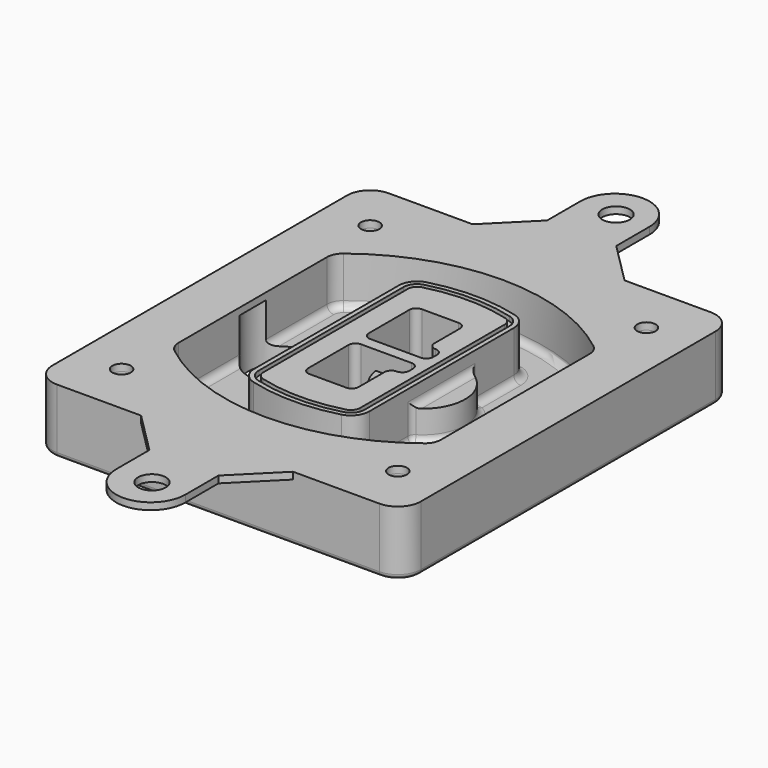
from build123d import *

# Parameters (mm, degrees)
F0_R      = 4
F1_DEPTH  = 25
F2_DEPTH  = 3
F3_DEPTH  = 18
F5_DEPTH  = 21
F6_DEPTH  = 2
F8_DEPTH  = 20
F9_DEPTH  = 16
F10_DEPTH = 25
F7_R      = 6
F7_R_2    = 4
F11_DEPTH = 6
F13_DEPTH = 9
F14_R     = 3
F15_R     = 2
F16_R     = 6
F16_R_2   = 4
F17_DEPTH = 3


with BuildPart() as f1:
    # F0 (on Top) → F1 (new body)
    with BuildSketch(Plane.XY):
        with BuildLine():
            ThreePointArc((-80, -80), (-77.0710678119, -87.0710678119), (-70, -90))
            Line((-70, -90), (70, -90))
            ThreePointArc((70, -90), (77.0710678119, -87.0710678119), (80, -80))
            Line((80, -80), (80, 80))
            ThreePointArc((80, 80), (77.0710678119, 87.0710678119), (70, 90))
            Line((70, 90), (-70, 90))
            ThreePointArc((-70, 90), (-77.0710678119, 87.0710678119), (-80, 80))
            Line((-80, 80), (-80, -80))
        make_face()
        with Locations((-60, -67.5)):
            Circle(F0_R, mode=Mode.SUBTRACT)
        with Locations((60, -67.5)):
            Circle(F0_R, mode=Mode.SUBTRACT)
        with Locations((-60, 67.5)):
            Circle(F0_R, mode=Mode.SUBTRACT)
        with BuildLine():
            ThreePointArc((-64, 40.2934422872), (-62.5820384798, 46.4328484224), (-58.6153846154, 51.3286200352))
            ThreePointArc((-58.6153846154, 51.3286200352), (0, 71.5), (58.6153846154, 51.3286200352))
            ThreePointArc((58.6153846154, 51.3286200352), (62.5820384798, 46.4328484224), (64, 40.2934422872))
            Line((64, 40.2934422872), (64, -40.2934422872))
            ThreePointArc((64, -40.2934422872), (62.5820384798, -46.4328484224), (58.6153846154, -51.3286200352))
            ThreePointArc((58.6153846154, -51.3286200352), (0, -71.5), (-58.6153846154, -51.3286200352))
            ThreePointArc((-58.6153846154, -51.3286200352), (-62.5820384798, -46.4328484224), (-64, -40.2934422872))
            Line((-64, -40.2934422872), (-64, 40.2934422872))
        make_face(mode=Mode.SUBTRACT)
        with Locations((60, 67.5)):
            Circle(F0_R, mode=Mode.SUBTRACT)
        with BuildLine():
            ThreePointArc((58.6153846154, 51.3286200352), (0, 71.5), (-58.6153846154, 51.3286200352))
            ThreePointArc((-58.6153846154, 51.3286200352), (-62.5820384798, 46.4328484224), (-64, 40.2934422872))
            Line((-64, 40.2934422872), (-64, -40.2934422872))
            ThreePointArc((-64, -40.2934422872), (-62.5820384798, -46.4328484224), (-58.6153846154, -51.3286200352))
            ThreePointArc((-58.6153846154, -51.3286200352), (0, -71.5), (58.6153846154, -51.3286200352))
            ThreePointArc((58.6153846154, -51.3286200352), (62.5820384798, -46.4328484224), (64, -40.2934422872))
            Line((64, -40.2934422872), (64, 40.2934422872))
            ThreePointArc((64, 40.2934422872), (62.5820384798, 46.4328484224), (58.6153846154, 51.3286200352))
        make_face()
        with BuildLine():
            Line((-60, -40.2934422872), (-60, 40.2934422872))
            ThreePointArc((-60, 40.2934422872), (-58.9871703427, 44.6787323838), (-56.1538461538, 48.1757121072))
            ThreePointArc((-56.1538461538, 48.1757121072), (0, 67.5), (56.1538461538, 48.1757121072))
            ThreePointArc((56.1538461538, 48.1757121072), (58.9871703427, 44.6787323838), (60, 40.2934422872))
            Line((60, 40.2934422872), (60, -40.2934422872))
            ThreePointArc((60, -40.2934422872), (58.9871703427, -44.6787323838), (56.1538461538, -48.1757121072))
            ThreePointArc((56.1538461538, -48.1757121072), (0, -67.5), (-56.1538461538, -48.1757121072))
            ThreePointArc((-56.1538461538, -48.1757121072), (-58.9871703427, -44.6787323838), (-60, -40.2934422872))
        make_face(mode=Mode.SUBTRACT)
        with BuildLine():
            ThreePointArc((-56.1538461538, 48.1757121072), (-58.9871703427, 44.6787323838), (-60, 40.2934422872))
            Line((-60, 40.2934422872), (-60, -40.2934422872))
            ThreePointArc((-60, -40.2934422872), (-58.9871703427, -44.6787323838), (-56.1538461538, -48.1757121072))
            ThreePointArc((-56.1538461538, -48.1757121072), (0, -67.5), (56.1538461538, -48.1757121072))
            ThreePointArc((56.1538461538, -48.1757121072), (58.9871703427, -44.6787323838), (60, -40.2934422872))
            Line((60, -40.2934422872), (60, 40.2934422872))
            ThreePointArc((60, 40.2934422872), (58.9871703427, 44.6787323838), (56.1538461538, 48.1757121072))
            ThreePointArc((56.1538461538, 48.1757121072), (0, 67.5), (-56.1538461538, 48.1757121072))
        make_face()
        with BuildLine():
            ThreePointArc((54.3076923077, 45.8110311612), (56.2910192399, 43.3631453548), (57, 40.2934422872))
            Line((57, 40.2934422872), (57, -40.2934422872))
            ThreePointArc((57, -40.2934422872), (56.2910192399, -43.3631453548), (54.3076923077, -45.8110311612))
            ThreePointArc((54.3076923077, -45.8110311612), (0, -64.5), (-54.3076923077, -45.8110311612))
            ThreePointArc((-54.3076923077, -45.8110311612), (-56.2910192399, -43.3631453548), (-57, -40.2934422872))
            Line((-57, -40.2934422872), (-57, 40.2934422872))
            ThreePointArc((-57, 40.2934422872), (-56.2910192399, 43.3631453548), (-54.3076923077, 45.8110311612))
            ThreePointArc((-54.3076923077, 45.8110311612), (0, 64.5), (54.3076923077, 45.8110311612))
        make_face(mode=Mode.SUBTRACT)
        with BuildLine():
            Line((57, -40.2934422872), (57, 40.2934422872))
            ThreePointArc((57, 40.2934422872), (56.2910192399, 43.3631453548), (54.3076923077, 45.8110311612))
            ThreePointArc((54.3076923077, 45.8110311612), (0, 64.5), (-54.3076923077, 45.8110311612))
            ThreePointArc((-54.3076923077, 45.8110311612), (-56.2910192399, 43.3631453548), (-57, 40.2934422872))
            Line((-57, 40.2934422872), (-57, -40.2934422872))
            ThreePointArc((-57, -40.2934422872), (-56.2910192399, -43.3631453548), (-54.3076923077, -45.8110311612))
            ThreePointArc((-54.3076923077, -45.8110311612), (0, -64.5), (54.3076923077, -45.8110311612))
            ThreePointArc((54.3076923077, -45.8110311612), (56.2910192399, -43.3631453548), (57, -40.2934422872))
        make_face()
    extrude(amount=-F1_DEPTH)

    # F0 (on Top) → F2 (join)
    with BuildSketch(Plane.XY):
        with BuildLine():
            ThreePointArc((-56.1538461538, 48.1757121072), (-58.9871703427, 44.6787323838), (-60, 40.2934422872))
            Line((-60, 40.2934422872), (-60, -40.2934422872))
            ThreePointArc((-60, -40.2934422872), (-58.9871703427, -44.6787323838), (-56.1538461538, -48.1757121072))
            ThreePointArc((-56.1538461538, -48.1757121072), (0, -67.5), (56.1538461538, -48.1757121072))
            ThreePointArc((56.1538461538, -48.1757121072), (58.9871703427, -44.6787323838), (60, -40.2934422872))
            Line((60, -40.2934422872), (60, 40.2934422872))
            ThreePointArc((60, 40.2934422872), (58.9871703427, 44.6787323838), (56.1538461538, 48.1757121072))
            ThreePointArc((56.1538461538, 48.1757121072), (0, 67.5), (-56.1538461538, 48.1757121072))
        make_face()
        with BuildLine():
            ThreePointArc((54.3076923077, 45.8110311612), (56.2910192399, 43.3631453548), (57, 40.2934422872))
            Line((57, 40.2934422872), (57, -40.2934422872))
            ThreePointArc((57, -40.2934422872), (56.2910192399, -43.3631453548), (54.3076923077, -45.8110311612))
            ThreePointArc((54.3076923077, -45.8110311612), (0, -64.5), (-54.3076923077, -45.8110311612))
            ThreePointArc((-54.3076923077, -45.8110311612), (-56.2910192399, -43.3631453548), (-57, -40.2934422872))
            Line((-57, -40.2934422872), (-57, 40.2934422872))
            ThreePointArc((-57, 40.2934422872), (-56.2910192399, 43.3631453548), (-54.3076923077, 45.8110311612))
            ThreePointArc((-54.3076923077, 45.8110311612), (0, 64.5), (54.3076923077, 45.8110311612))
        make_face(mode=Mode.SUBTRACT)
    extrude(amount=F2_DEPTH)

    # F0 (on Top) → F3 (cut)
    with BuildSketch(Plane.XY):
        with BuildLine():
            Line((57, -40.2934422872), (57, 40.2934422872))
            ThreePointArc((57, 40.2934422872), (56.2910192399, 43.3631453548), (54.3076923077, 45.8110311612))
            ThreePointArc((54.3076923077, 45.8110311612), (0, 64.5), (-54.3076923077, 45.8110311612))
            ThreePointArc((-54.3076923077, 45.8110311612), (-56.2910192399, 43.3631453548), (-57, 40.2934422872))
            Line((-57, 40.2934422872), (-57, -40.2934422872))
            ThreePointArc((-57, -40.2934422872), (-56.2910192399, -43.3631453548), (-54.3076923077, -45.8110311612))
            ThreePointArc((-54.3076923077, -45.8110311612), (0, -64.5), (54.3076923077, -45.8110311612))
            ThreePointArc((54.3076923077, -45.8110311612), (56.2910192399, -43.3631453548), (57, -40.2934422872))
        make_face()
    extrude(amount=-F3_DEPTH, mode=Mode.SUBTRACT)

    # F4 (on face) → F5 (join, through all)
    with BuildSketch(Plane.XY.offset(3)):
        with BuildLine():
            ThreePointArc((-25, -39.2465276821), (-23.3511545998, -44.1109737193), (-19.0842911877, -46.9702398883))
            ThreePointArc((-19.0842911877, -46.9702398883), (0, -49.5), (19.0842911877, -46.9702398883))
            ThreePointArc((19.0842911877, -46.9702398883), (23.3511545998, -44.1109737193), (25, -39.2465276821))
            Line((25, -39.2465276821), (25, 39.2465276821))
            ThreePointArc((25, 39.2465276821), (23.3511545998, 44.1109737193), (19.0842911877, 46.9702398883))
            ThreePointArc((19.0842911877, 46.9702398883), (0, 49.5), (-19.0842911877, 46.9702398883))
            ThreePointArc((-19.0842911877, 46.9702398883), (-23.3511545998, 44.1109737193), (-25, 39.2465276821))
            Line((-25, 39.2465276821), (-25, -39.2465276821))
        make_face()
        with BuildLine():
            ThreePointArc((18.5632183908, 45.0393118368), (21.7633659499, 42.89486221), (23, 39.2465276821))
            Line((23, 39.2465276821), (23, -39.2465276821))
            ThreePointArc((23, -39.2465276821), (21.7633659499, -42.89486221), (18.5632183908, -45.0393118368))
            ThreePointArc((18.5632183908, -45.0393118368), (0, -47.5), (-18.5632183908, -45.0393118368))
            ThreePointArc((-18.5632183908, -45.0393118368), (-21.7633659499, -42.89486221), (-23, -39.2465276821))
            Line((-23, -39.2465276821), (-23, 39.2465276821))
            ThreePointArc((-23, 39.2465276821), (-21.7633659499, 42.89486221), (-18.5632183908, 45.0393118368))
            ThreePointArc((-18.5632183908, 45.0393118368), (0, 47.5), (18.5632183908, 45.0393118368))
        make_face(mode=Mode.SUBTRACT)
        with BuildLine():
            Line((23, -39.2465276821), (23, 39.2465276821))
            ThreePointArc((23, 39.2465276821), (21.7633659499, 42.89486221), (18.5632183908, 45.0393118368))
            ThreePointArc((18.5632183908, 45.0393118368), (0, 47.5), (-18.5632183908, 45.0393118368))
            ThreePointArc((-18.5632183908, 45.0393118368), (-21.7633659499, 42.89486221), (-23, 39.2465276821))
            Line((-23, 39.2465276821), (-23, -39.2465276821))
            ThreePointArc((-23, -39.2465276821), (-21.7633659499, -42.89486221), (-18.5632183908, -45.0393118368))
            ThreePointArc((-18.5632183908, -45.0393118368), (0, -47.5), (18.5632183908, -45.0393118368))
            ThreePointArc((18.5632183908, -45.0393118368), (21.7633659499, -42.89486221), (23, -39.2465276821))
        make_face()
        with BuildLine():
            ThreePointArc((18.0421455939, 43.1083837852), (20.1755772999, 41.6787507007), (21, 39.2465276821))
            Line((21, 39.2465276821), (21, -39.2465276821))
            ThreePointArc((21, -39.2465276821), (20.1755772999, -41.6787507007), (18.0421455939, -43.1083837852))
            ThreePointArc((18.0421455939, -43.1083837852), (0, -45.5), (-18.0421455939, -43.1083837852))
            ThreePointArc((-18.0421455939, -43.1083837852), (-20.1755772999, -41.6787507007), (-21, -39.2465276821))
            Line((-21, -39.2465276821), (-21, 39.2465276821))
            ThreePointArc((-21, 39.2465276821), (-20.1755772999, 41.6787507007), (-18.0421455939, 43.1083837852))
            ThreePointArc((-18.0421455939, 43.1083837852), (0, 45.5), (18.0421455939, 43.1083837852))
        make_face(mode=Mode.SUBTRACT)
        with BuildLine():
            Line((21, -39.2465276821), (21, 39.2465276821))
            ThreePointArc((21, 39.2465276821), (20.1755772999, 41.6787507007), (18.0421455939, 43.1083837852))
            ThreePointArc((18.0421455939, 43.1083837852), (0, 45.5), (-18.0421455939, 43.1083837852))
            ThreePointArc((-18.0421455939, 43.1083837852), (-20.1755772999, 41.6787507007), (-21, 39.2465276821))
            Line((-21, 39.2465276821), (-21, -39.2465276821))
            ThreePointArc((-21, -39.2465276821), (-20.1755772999, -41.6787507007), (-18.0421455939, -43.1083837852))
            ThreePointArc((-18.0421455939, -43.1083837852), (0, -45.5), (18.0421455939, -43.1083837852))
            ThreePointArc((18.0421455939, -43.1083837852), (20.1755772999, -41.6787507007), (21, -39.2465276821))
        make_face()
        with BuildLine():
            Line((-8, -2.5), (14, -2.5))
            ThreePointArc((14, -2.5), (16.1213203436, -3.3786796564), (17, -5.5))
            Line((17, -5.5), (17, -7.5))
            ThreePointArc((17, -7.5), (16.1213203436, -9.6213203436), (14, -10.5))
            ThreePointArc((14, -10.5), (11.8786796564, -11.3786796564), (11, -13.5))
            Line((11, -13.5), (11, -27.5))
            ThreePointArc((11, -27.5), (10.1213203436, -29.6213203436), (8, -30.5))
            Line((8, -30.5), (-8, -30.5))
            ThreePointArc((-8, -30.5), (-10.1213203436, -29.6213203436), (-11, -27.5))
            Line((-11, -27.5), (-11, -5.5))
            ThreePointArc((-11, -5.5), (-10.1213203436, -3.3786796564), (-8, -2.5))
        make_face(mode=Mode.SUBTRACT)
        with BuildLine():
            ThreePointArc((-8, 2.5), (-10.1213203436, 3.3786796564), (-11, 5.5))
            Line((-11, 5.5), (-11, 27.5))
            ThreePointArc((-11, 27.5), (-10.1213203436, 29.6213203436), (-8, 30.5))
            Line((-8, 30.5), (8, 30.5))
            ThreePointArc((8, 30.5), (10.1213203436, 29.6213203436), (11, 27.5))
            Line((11, 27.5), (11, 13.5))
            ThreePointArc((11, 13.5), (11.8786796564, 11.3786796564), (14, 10.5))
            ThreePointArc((14, 10.5), (16.1213203436, 9.6213203436), (17, 7.5))
            Line((17, 7.5), (17, 5.5))
            ThreePointArc((17, 5.5), (16.1213203436, 3.3786796564), (14, 2.5))
            Line((14, 2.5), (-8, 2.5))
        make_face(mode=Mode.SUBTRACT)
    extrude(amount=-F5_DEPTH)

    # F4 (on face) → F6 (cut)
    with BuildSketch(Plane.XY.offset(3)):
        with BuildLine():
            Line((23, -39.2465276821), (23, 39.2465276821))
            ThreePointArc((23, 39.2465276821), (21.7633659499, 42.89486221), (18.5632183908, 45.0393118368))
            ThreePointArc((18.5632183908, 45.0393118368), (0, 47.5), (-18.5632183908, 45.0393118368))
            ThreePointArc((-18.5632183908, 45.0393118368), (-21.7633659499, 42.89486221), (-23, 39.2465276821))
            Line((-23, 39.2465276821), (-23, -39.2465276821))
            ThreePointArc((-23, -39.2465276821), (-21.7633659499, -42.89486221), (-18.5632183908, -45.0393118368))
            ThreePointArc((-18.5632183908, -45.0393118368), (0, -47.5), (18.5632183908, -45.0393118368))
            ThreePointArc((18.5632183908, -45.0393118368), (21.7633659499, -42.89486221), (23, -39.2465276821))
        make_face()
        with BuildLine():
            ThreePointArc((18.0421455939, 43.1083837852), (20.1755772999, 41.6787507007), (21, 39.2465276821))
            Line((21, 39.2465276821), (21, -39.2465276821))
            ThreePointArc((21, -39.2465276821), (20.1755772999, -41.6787507007), (18.0421455939, -43.1083837852))
            ThreePointArc((18.0421455939, -43.1083837852), (0, -45.5), (-18.0421455939, -43.1083837852))
            ThreePointArc((-18.0421455939, -43.1083837852), (-20.1755772999, -41.6787507007), (-21, -39.2465276821))
            Line((-21, -39.2465276821), (-21, 39.2465276821))
            ThreePointArc((-21, 39.2465276821), (-20.1755772999, 41.6787507007), (-18.0421455939, 43.1083837852))
            ThreePointArc((-18.0421455939, 43.1083837852), (0, 45.5), (18.0421455939, 43.1083837852))
        make_face(mode=Mode.SUBTRACT)
    extrude(amount=-F6_DEPTH, mode=Mode.SUBTRACT)

    # F7 (on face) → F8 (join)
    with BuildSketch(Plane(origin=(0, 0, -25), x_dir=(1, 0, 0), z_dir=(0, 0, -1))):
        with BuildLine():
            ThreePointArc((3.28842436, 0), (16.7567035675, 13.4682792075), (30.224982775, 0))
            Line((30.224982775, 0), (35.224982775, 0))
            ThreePointArc((35.224982775, 0), (16.7567035675, 18.4682792075), (-1.71157564, 0))
            Line((-1.71157564, 0), (3.28842436, 0))
        make_face()
        with BuildLine():
            Line((3.28842436, 0), (30.224982775, 0))
            ThreePointArc((30.224982775, 0), (16.7567035675, 13.4682792075), (3.28842436, 0))
        make_face()
        with BuildLine():
            ThreePointArc((3.28842436, 0), (16.7567035675, -13.4682792075), (30.224982775, 0))
            Line((30.224982775, 0), (3.28842436, 0))
        make_face()
        with BuildLine():
            Line((35.224982775, 0), (30.224982775, 0))
            ThreePointArc((30.224982775, 0), (16.7567035675, -13.4682792075), (3.28842436, 0))
            Line((3.28842436, 0), (-1.71157564, 0))
            ThreePointArc((-1.71157564, 0), (16.7567035675, -18.4682792075), (35.224982775, 0))
        make_face()
    extrude(amount=-F8_DEPTH)

    # F7 (on face) → F9 (cut)
    with BuildSketch(Plane(origin=(0, 0, -25), x_dir=(1, 0, 0), z_dir=(0, 0, -1))):
        with BuildLine():
            Line((3.28842436, 0), (30.224982775, 0))
            ThreePointArc((30.224982775, 0), (16.7567035675, 13.4682792075), (3.28842436, 0))
        make_face()
        with BuildLine():
            ThreePointArc((3.28842436, 0), (16.7567035675, -13.4682792075), (30.224982775, 0))
            Line((30.224982775, 0), (3.28842436, 0))
        make_face()
    extrude(amount=-F9_DEPTH, mode=Mode.SUBTRACT)

    # F7 (on face) → F10 (cut)
    with BuildSketch(Plane(origin=(0, 0, -25), x_dir=(1, 0, 0), z_dir=(0, 0, -1))):
        with BuildLine():
            Line((-59.0318229325, 0), (-32.0952645175, 0))
            ThreePointArc((-32.0952645175, 0), (-45.563543725, 13.4682792075), (-59.0318229325, 0))
        make_face()
        with BuildLine():
            ThreePointArc((-59.0318229325, 0), (-45.563543725, -13.4682792075), (-32.0952645175, 0))
            Line((-32.0952645175, 0), (-59.0318229325, 0))
        make_face()
    extrude(amount=-F10_DEPTH, mode=Mode.SUBTRACT)

    # F7 (on face) → F11 (cut)
    with BuildSketch(Plane(origin=(0, 0, -25), x_dir=(1, 0, 0), z_dir=(0, 0, -1))):
        with Locations((60, -67.5)):
            Circle(F7_R)
        with Locations((60, -67.5)):
            Circle(F7_R_2, mode=Mode.SUBTRACT)
        with Locations((60, -67.5)):
            Circle(F7_R)
        with Locations((60, -67.5)):
            Circle(F7_R_2, mode=Mode.SUBTRACT)
        with Locations((-60, -67.5)):
            Circle(F7_R)
        with Locations((-60, -67.5)):
            Circle(F7_R_2, mode=Mode.SUBTRACT)
        with Locations((-60, -67.5)):
            Circle(F7_R)
        with Locations((-60, -67.5)):
            Circle(F7_R_2, mode=Mode.SUBTRACT)
        with Locations((-60, 67.5)):
            Circle(F7_R)
        with Locations((-60, 67.5)):
            Circle(F7_R_2, mode=Mode.SUBTRACT)
        with Locations((-60, 67.5)):
            Circle(F7_R)
        with Locations((-60, 67.5)):
            Circle(F7_R_2, mode=Mode.SUBTRACT)
        with Locations((60, 67.5)):
            Circle(F7_R)
        with Locations((60, 67.5)):
            Circle(F7_R_2, mode=Mode.SUBTRACT)
        with Locations((60, 67.5)):
            Circle(F7_R)
        with Locations((60, 67.5)):
            Circle(F7_R_2, mode=Mode.SUBTRACT)
    extrude(amount=-F11_DEPTH, mode=Mode.SUBTRACT)

    # F12 (on face) → F13 (cut, through all)
    with BuildSketch(Plane(origin=(0, 0, -9), x_dir=(1, 0, 0), z_dir=(0, 0, -1))):
        with BuildLine():
            Line((11, 13.5), (11, 17.5481537753))
            ThreePointArc((11, 17.5481537753), (2.5696536419, 11.8239143813), (-1.5415842455, 2.5))
            Line((-1.5415842455, 2.5), (3.5224848595, 2.5))
            ThreePointArc((3.5224848595, 2.5), (6.1857188154, 8.3455872281), (11.2536447004, 12.2927168648))
            ThreePointArc((11.2536447004, 12.2927168648), (11.0640958889, 12.8831798879), (11, 13.5))
        make_face()
        with BuildLine():
            ThreePointArc((11.2536447004, -12.2927168648), (6.1857188154, -8.3455872281), (3.5224848595, -2.5))
            Line((3.5224848595, -2.5), (-1.5415842455, -2.5))
            ThreePointArc((-1.5415842455, -2.5), (2.5696536419, -11.8239143813), (11, -17.5481537753))
            Line((11, -17.5481537753), (11, -13.5))
            ThreePointArc((11, -13.5), (11.0640958889, -12.8831798879), (11.2536447004, -12.2927168648))
        make_face()
        with BuildLine():
            ThreePointArc((11.2536447004, 12.2927168648), (6.1857188154, 8.3455872281), (3.5224848595, 2.5))
            Line((3.5224848595, 2.5), (14, 2.5))
            ThreePointArc((14, 2.5), (16.1213203436, 3.3786796564), (17, 5.5))
            Line((17, 5.5), (17, 7.5))
            ThreePointArc((17, 7.5), (16.1213203436, 9.6213203436), (14, 10.5))
            ThreePointArc((14, 10.5), (12.3601599782, 10.9878446101), (11.2536447004, 12.2927168648))
        make_face()
        with BuildLine():
            Line((14, -2.5), (3.5224848595, -2.5))
            ThreePointArc((3.5224848595, -2.5), (6.1857188154, -8.3455872281), (11.2536447004, -12.2927168648))
            ThreePointArc((11.2536447004, -12.2927168648), (12.3601599782, -10.9878446101), (14, -10.5))
            ThreePointArc((14, -10.5), (16.1213203436, -9.6213203436), (17, -7.5))
            Line((17, -7.5), (17, -5.5))
            ThreePointArc((17, -5.5), (16.1213203436, -3.3786796564), (14, -2.5))
        make_face()
    extrude(amount=F13_DEPTH, mode=Mode.SUBTRACT)

    # F14
    f14_edges = [f1.edges().sort_by_distance(p)[0] for p in [
        (-57, -23.703476, -18),
        (-57, 23.703476, -18),
        (25, 0, -5),
        (25, 16.526506, -11.5),
        (25, -16.526506, -11.5),
        (25, -27.886517, -18),
        (35.224983, 0, -18),
    ]]
    fillet(f14_edges, radius=F14_R)

    # F15
    f15_edges = [f1.edges().sort_by_distance(p)[0] for p in [
        (0, -90, -25),
    ]]
    fillet(f15_edges, radius=F15_R)

    # F16 (on face) → F17 (join, through all)
    with BuildSketch(Plane.XY):
        with BuildLine():
            Line((-15.5154720907, 108), (-33.5154720907, 90))
            Line((-33.5154720907, 90), (32.4845279093, 90))
            Line((32.4845279093, 90), (14.4845279093, 108))
            Line((14.4845279093, 108), (14.4845279093, 126))
            ThreePointArc((14.4845279093, 126), (-0.5154720907, 141), (-15.5154720907, 126))
            Line((-15.5154720907, 126), (-15.5154720907, 108))
        make_face()
        with Locations((0, 126)):
            Circle(F16_R, mode=Mode.SUBTRACT)
        with BuildLine():
            Line((32.4845279093, -90), (-33.5154720907, -90))
            Line((-33.5154720907, -90), (-15.5154720907, -108))
            Line((-15.5154720907, -108), (-15.5154720907, -126))
            ThreePointArc((-15.5154720907, -126), (-0.5154720907, -141), (14.4845279093, -126))
            Line((14.4845279093, -126), (14.4845279093, -108))
            Line((14.4845279093, -108), (32.4845279093, -90))
        make_face()
        with Locations((0, -126)):
            Circle(F16_R, mode=Mode.SUBTRACT)
        with BuildLine():
            Line((-60, -40.2934422872), (-60, 0))
            Line((-60, 0), (-80, 0))
            Line((-80, 0), (-80, -80))
            ThreePointArc((-80, -80), (-77.0710678119, -87.0710678119), (-70, -90))
            Line((-70, -90), (-33.5154720907, -90))
            Line((-33.5154720907, -90), (32.4845279093, -90))
            Line((32.4845279093, -90), (70, -90))
            ThreePointArc((70, -90), (77.0710678119, -87.0710678119), (80, -80))
            Line((80, -80), (80, 0))
            Line((80, 0), (60, 0))
            Line((60, 0), (60, -40.2934422872))
            ThreePointArc((60, -40.2934422872), (58.9871703427, -44.6787323838), (56.1538461538, -48.1757121072))
            ThreePointArc((56.1538461538, -48.1757121072), (0, -67.5), (-56.1538461538, -48.1757121072))
            ThreePointArc((-56.1538461538, -48.1757121072), (-58.9871703427, -44.6787323838), (-60, -40.2934422872))
        make_face()
        with Locations((-60, -67.5)):
            Circle(F16_R_2, mode=Mode.SUBTRACT)
        with Locations((60, -67.5)):
            Circle(F16_R_2, mode=Mode.SUBTRACT)
        with BuildLine():
            ThreePointArc((-60, 40.2934422872), (-58.9871703427, 44.6787323838), (-56.1538461538, 48.1757121072))
            ThreePointArc((-56.1538461538, 48.1757121072), (0, 67.5), (56.1538461538, 48.1757121072))
            ThreePointArc((56.1538461538, 48.1757121072), (58.9871703427, 44.6787323838), (60, 40.2934422872))
            Line((60, 40.2934422872), (60, 0))
            Line((60, 0), (80, 0))
            Line((80, 0), (80, 80))
            ThreePointArc((80, 80), (77.0710678119, 87.0710678119), (70, 90))
            Line((70, 90), (32.4845279093, 90))
            Line((32.4845279093, 90), (-33.5154720907, 90))
            Line((-33.5154720907, 90), (-70, 90))
            ThreePointArc((-70, 90), (-77.0710678119, 87.0710678119), (-80, 80))
            Line((-80, 80), (-80, 0))
            Line((-80, 0), (-60, 0))
            Line((-60, 0), (-60, 40.2934422872))
        make_face()
        with Locations((-60, 67.5)):
            Circle(F16_R_2, mode=Mode.SUBTRACT)
        with Locations((60, 67.5)):
            Circle(F16_R_2, mode=Mode.SUBTRACT)
    extrude(amount=F17_DEPTH)


solid = f1.part
